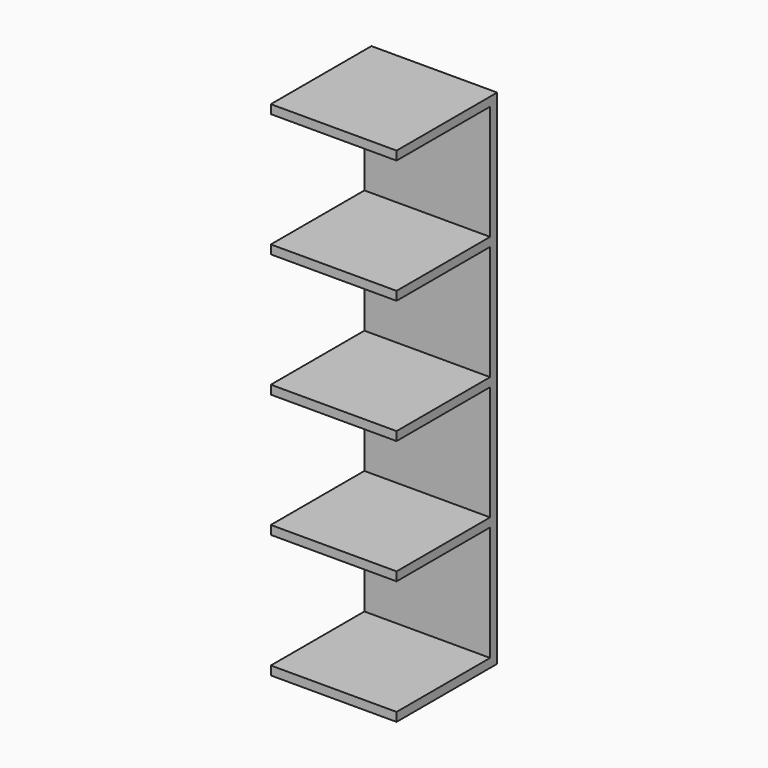
from build123d import *

# Parameters (mm, degrees)
F0_W     = 500
F0_H     = 2000
F1_DEPTH = 500
F2_W     = 500
F2_H     = 456
F2_H_2   = 457
F3_DEPTH = 465


with BuildPart() as f1:
    # F0 (on Front) → F1 (new body)
    with BuildSketch(Plane.XZ):
        with Locations((-3.89257, 6.895162)):
            Rectangle(F0_W, F0_H)
    extrude(amount=F1_DEPTH)

    # F2 (on face) → F3 (cut)
    with BuildSketch(Plane.XZ.offset(500)):
        with Locations((-3.89257, 743.895162)):
            Rectangle(F2_W, F2_H)
        with Locations((-3.89257, 252.895162)):
            Rectangle(F2_W, F2_H)
        with Locations((-3.89257, -238.104838)):
            Rectangle(F2_W, F2_H)
        with Locations((-3.89257, -729.604838)):
            Rectangle(F2_W, F2_H_2)
    extrude(amount=-F3_DEPTH, mode=Mode.SUBTRACT)


solid = f1.part
